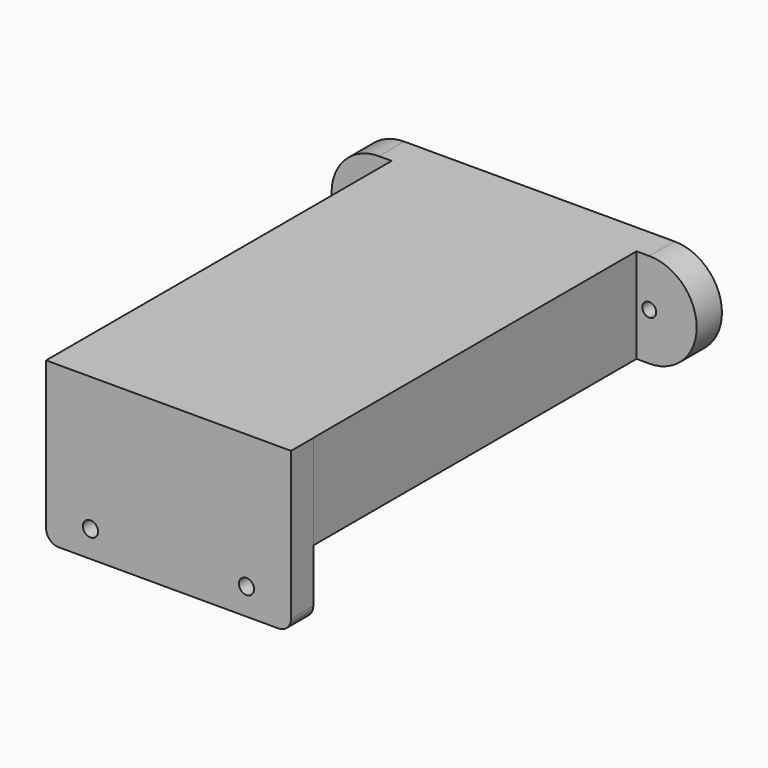
from build123d import *

# Parameters (mm, degrees)
F1_DEPTH = 6.35
F2_W     = 49.21945557
F2_H     = 19.05
F3_DEPTH = 81.28
F4_W     = 49.21945557
F4_H     = 19.05
F4_R     = 1.524
F5_DEPTH = 5.588
F6_R     = 2.54


with BuildPart() as f1:
    # F0 (on Front) → F1 (new body)
    with BuildSketch(Plane.XZ):
        with BuildLine():
            ThreePointArc((-27.178, 9.525), (-36.703, 0), (-27.178, -9.525))
            Line((-27.178, -9.525), (-27.178, -1.397))
            ThreePointArc((-27.178, -1.397), (-28.575, 0), (-27.178, 1.397))
            Line((-27.178, 1.397), (-27.178, 9.525))
        make_face()
        with BuildLine():
            Line((-27.178, -9.525), (27.178, -9.525))
            Line((27.178, -9.525), (27.178, -1.397))
            ThreePointArc((27.178, -1.397), (25.781, 0), (27.178, 1.397))
            Line((27.178, 1.397), (27.178, 9.525))
            Line((27.178, 9.525), (-27.178, 9.525))
            Line((-27.178, 9.525), (-27.178, 1.397))
            ThreePointArc((-27.178, 1.397), (-26.1901718267, 0.9878281733), (-25.781, 0))
            ThreePointArc((-25.781, 0), (-26.1901718267, -0.9878281733), (-27.178, -1.397))
            Line((-27.178, -1.397), (-27.178, -9.525))
        make_face()
        with BuildLine():
            Line((27.178, -1.397), (27.178, -9.525))
            ThreePointArc((27.178, -9.525), (36.703, 0), (27.178, 9.525))
            Line((27.178, 9.525), (27.178, 1.397))
            ThreePointArc((27.178, 1.397), (28.1658281733, 0.9878281733), (28.575, 0))
            ThreePointArc((28.575, 0), (28.1658281733, -0.9878281733), (27.178, -1.397))
        make_face()
    extrude(amount=F1_DEPTH)

    # F2 (on face) → F3 (join)
    with BuildSketch(Plane.XZ.offset(6.35)):
        Rectangle(F2_W, F2_H)
    extrude(amount=F3_DEPTH)

    # F4 (on face) → F5 (join)
    with BuildSketch(Plane.XZ.offset(87.63)):
        Rectangle(F4_W, F4_H)
        Polygon((24.6470458806, 9.525), (24.609727785, 9.525), (24.609727785, -9.525), (-24.609727785, -9.525), (-24.609727785, -22.733), (24.6470458806, -22.733), align=None)
        with Locations((-15.678541685, -17.399)):
            Circle(F4_R, mode=Mode.SUBTRACT)
        with Locations((15.678541685, -17.399)):
            Circle(F4_R, mode=Mode.SUBTRACT)
    extrude(amount=F5_DEPTH)

    # F6
    f6_edges = [f1.edges().sort_by_distance(p)[0] for p in [
        (-24.609728, -90.424, -22.733),
        (24.647046, -90.424, -22.733),
    ]]
    fillet(f6_edges, radius=F6_R)


solid = f1.part
